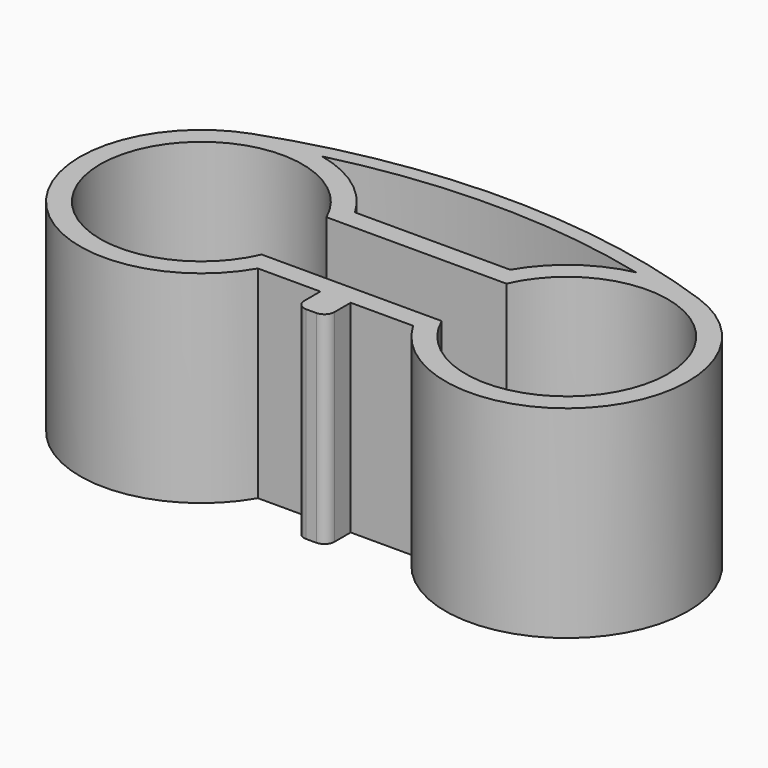
from build123d import *

# Parameters (mm, degrees)
F1_DEPTH = 20
F3_DEPTH = 3
F4_R     = 1


with BuildPart() as f1:
    # F0 (on Top) → F1 (new body)
    with BuildSketch(Plane.XY):
        with BuildLine():
            ThreePointArc((-22.105041, 11.299526), (-27.279634, -7.687217), (-7.672847, -6))
            Line((-7.672847, -6), (7.672847, -6))
            ThreePointArc((7.672847, -6), (27.279634, -7.687217), (22.105041, 11.299526))
            ThreePointArc((22.105041, 11.299526), (18.842402, 11.974802), (15.519847, 11.726953))
            ThreePointArc((15.519847, 11.726953), (10.990907, 9.693042), (7.672847, 6))
            Line((7.672847, 6), (-1.3, 6))
            Line((-1.3, 6), (-7.672847, 6))
            ThreePointArc((-7.672847, 6), (-10.990907, 9.693042), (-15.519847, 11.726953))
            ThreePointArc((-15.519847, 11.726953), (-18.842402, 11.974802), (-22.105041, 11.299526))
        make_face()
        with BuildLine():
            Line((-8.9, 4), (0, 4))
            Line((0, 4), (8.9, 4))
            ThreePointArc((8.9, 4), (28.065151, 0), (8.9, -4))
            Line((8.9, -4), (-8.9, -4))
            ThreePointArc((-8.9, -4), (-28.065151, 0), (-8.9, 4))
        make_face(mode=Mode.SUBTRACT)
        with BuildLine():
            ThreePointArc((22.105041, 11.299526), (0, 15.132305), (-22.105041, 11.299526))
            ThreePointArc((-22.105041, 11.299526), (-18.842402, 11.974802), (-15.519847, 11.726953))
            ThreePointArc((-15.519847, 11.726953), (0, 13.632305), (15.519847, 11.726953))
            ThreePointArc((15.519847, 11.726953), (18.842402, 11.974802), (22.105041, 11.299526))
        make_face()
    extrude(amount=F1_DEPTH)

    # F2 (on face) → F3 (join)
    with BuildSketch(Plane.XZ.offset(6)):
        Polygon((1.5, 20), (0, 20), (-1.5, 20), (-1.5, 0), (0, 0), (1.5, 0), align=None)
    extrude(amount=F3_DEPTH)

    # F4
    f4_edges = [f1.edges().sort_by_distance(p)[0] for p in [
        (1.5, -9, 10),
        (-1.5, -9, 10),
    ]]
    fillet(f4_edges, radius=F4_R)


solid = f1.part
